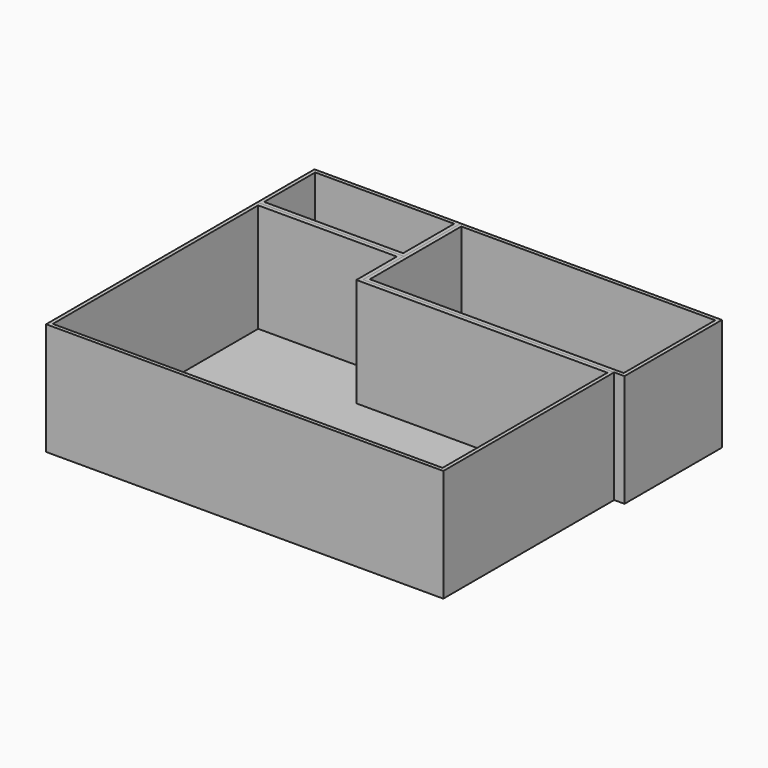
from build123d import *

# Parameters (mm, degrees)
F0_W     = 10769.6
F0_H     = 7162.8
F1_DEPTH = 3048
F2_W     = 6807.2
F2_H     = 1371.6
F3_DEPTH = 3048.001
F4_T     = -101.6
F6_DEPTH = 3048
F7_T     = -101.6
F8_W     = 3969.4886634827
F8_H     = 1933.3666931152
F9_DEPTH = 3048
F10_T    = -101.6


with BuildPart() as f1:
    # F0 (on Top) → F1 (new body)
    with BuildSketch(Plane.XY):
        Rectangle(F0_W, F0_H)
    extrude(amount=F1_DEPTH)

    # F2 (on face) → F3 (cut, through all)
    with BuildSketch(Plane.XY.offset(3048)):
        with Locations((1981.2, 2895.6)):
            Rectangle(F2_W, F2_H)
    extrude(amount=-F3_DEPTH, mode=Mode.SUBTRACT)

    # F4
    f4_openings = [f1.faces().sort_by_distance(p)[0] for p in [
        (-272.816533, -398.731857, 3048),
    ]]
    offset(amount=F4_T, openings=f4_openings, kind=Kind.INTERSECTION)


with BuildPart() as f6:
    # F5 (on face) → F6 (new body)
    with BuildSketch(Plane.XY.offset(3048)):
        Polygon((-1422.4, 3581.4), (-1422.4, 2209.8), (5384.8, 2209.8), (5664.2, 2209.8), (5664.2, 5511.8), (-1422.4, 5511.8), align=None)
    extrude(amount=-F6_DEPTH)

    # F7
    f7_openings = [f6.faces().sort_by_distance(p)[0] for p in [
        (2120.9, 3860.8, 3048),
        (2120.9, 3860.8, 0),
    ]]
    offset(amount=F7_T, openings=f7_openings)


with BuildPart() as f9:
    # F8 (on face) → F9 (new body)
    with BuildSketch(Plane.XY.offset(3048)):
        with Locations((-3400.0556682587, 4548.0833465576)):
            Rectangle(F8_W, F8_H)
    extrude(amount=-F9_DEPTH)

    # F10
    f10_openings = [f9.faces().sort_by_distance(p)[0] for p in [
        (-3400.055668, 4548.083347, 0),
        (-3400.055668, 4548.083347, 3048),
    ]]
    offset(amount=F10_T, openings=f10_openings)


solid = Compound([f1.part, f6.part, f9.part])
